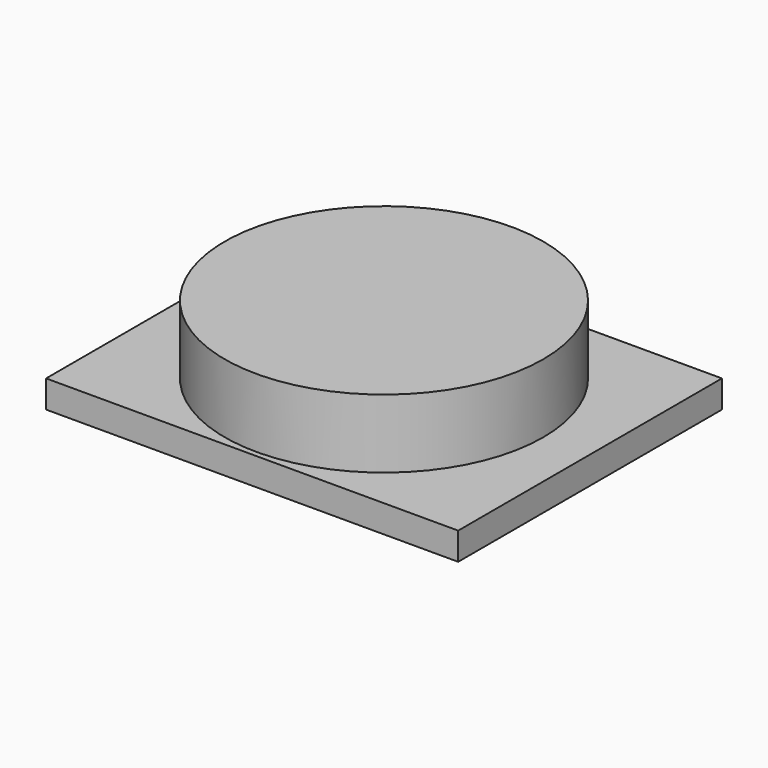
from build123d import *

# Parameters (mm, degrees)
SKETCH_W     = 15
SKETCH_H     = 12
PAD_DEPTH    = 1
SKETCH002_R  = 5.8
PAD001_DEPTH = 2.5


with BuildPart() as part:
    # Sketch → Pad (new body)
    with BuildSketch(Plane.XY):
        Rectangle(SKETCH_W, SKETCH_H)
    extrude(amount=PAD_DEPTH)

    # Sketch002 (on Face6 of Pad) → Pad001 (join)
    with BuildSketch(Plane.XY.offset(1)):
        Circle(SKETCH002_R)
    extrude(amount=PAD001_DEPTH)


solid = part.part
